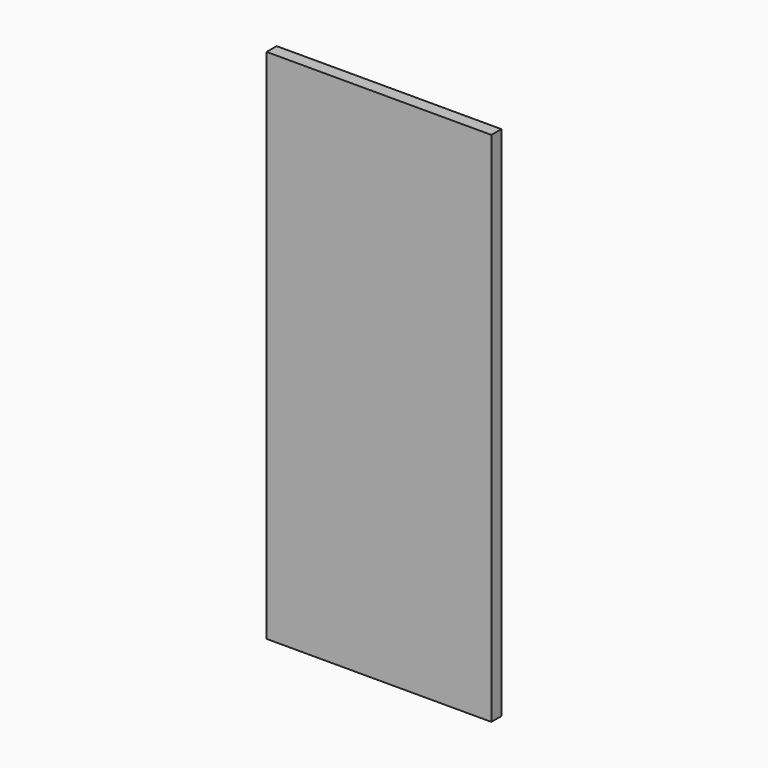
from build123d import *

# Parameters (mm, degrees)
F0_W     = 59
F0_H     = 135.65
F1_DEPTH = 3.3
F2_R     = 1.5
F3_DEPTH = 3
F4_R     = 1.5
F5_DEPTH = 3


with BuildPart() as f1:
    # F0 (on Front) → F1 (new body)
    with BuildSketch(Plane.XZ):
        Rectangle(F0_W, F0_H)
    extrude(amount=F1_DEPTH)

    # F2 (on face) → F3 (cut)
    with BuildSketch(Plane(origin=(0, 0, 0), x_dir=(-1, 0, 0), z_dir=(0, 1, 0))):
        with Locations((14.5, 52.825)):
            Circle(F2_R)
        with Locations((14.5, -52.825)):
            Circle(F2_R)
    extrude(amount=-F3_DEPTH, mode=Mode.SUBTRACT)

    # F4 (on face) → F5 (cut)
    with BuildSketch(Plane(origin=(0, 0, 0), x_dir=(-1, 0, 0), z_dir=(0, 1, 0))):
        with Locations((-23.794, 27.362)):
            Circle(F4_R)
        with Locations((-11.021, 27.362)):
            Circle(F4_R)
        with Locations((-23.794, -39.138)):
            Circle(F4_R)
        with Locations((-11.021, -39.138)):
            Circle(F4_R)
    extrude(amount=-F5_DEPTH, mode=Mode.SUBTRACT)


solid = f1.part
